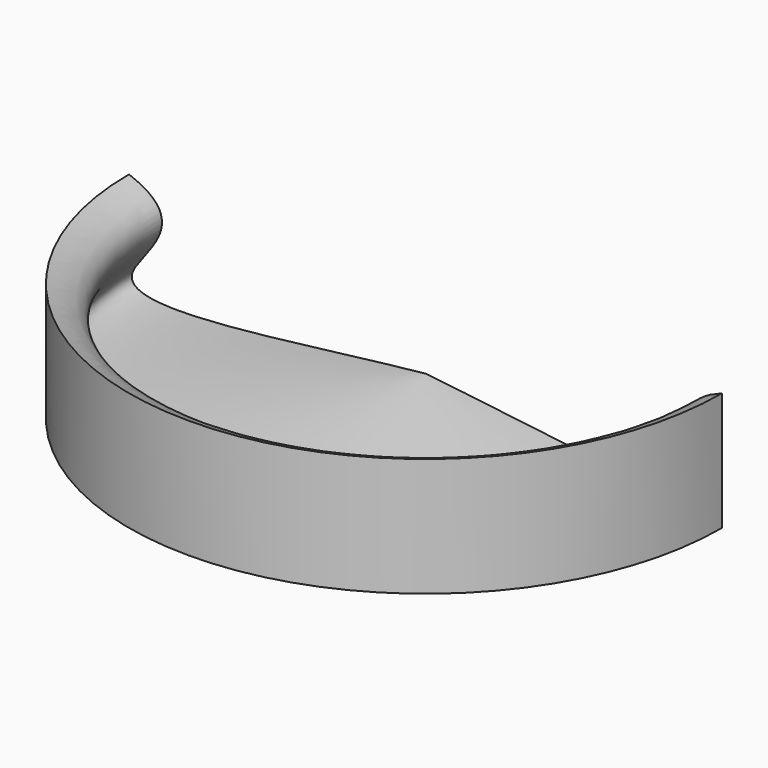
from build123d import *

# Parameters (mm, degrees)
F3_ANGLE = 180


with BuildPart() as f3:
    # F1 (on Front) → F3 (revolve)
    with BuildSketch(Plane.XZ):
        with BuildLine():
            Line((-7.5, 3), (-7.5, 0))
            Line((-7.5, 0), (0, 0))
            Line((0, 0), (0, 1))
            add(Edge.make_bspline(
                [(-7.5, 3), (-5.7532144691, 2.3566017458), (-10.0828036246, -0.5631384648), (-3.2634593693, 0.6708384477), (0, 1)],
                knots=[0, 0, 0, 0, 0.3517344455, 1, 1, 1, 1], degree=3))
        make_face()
    revolve(axis=Axis((0, 0, 18.3163173497), (0, 0, 1)), revolution_arc=F3_ANGLE)


solid = f3.part
